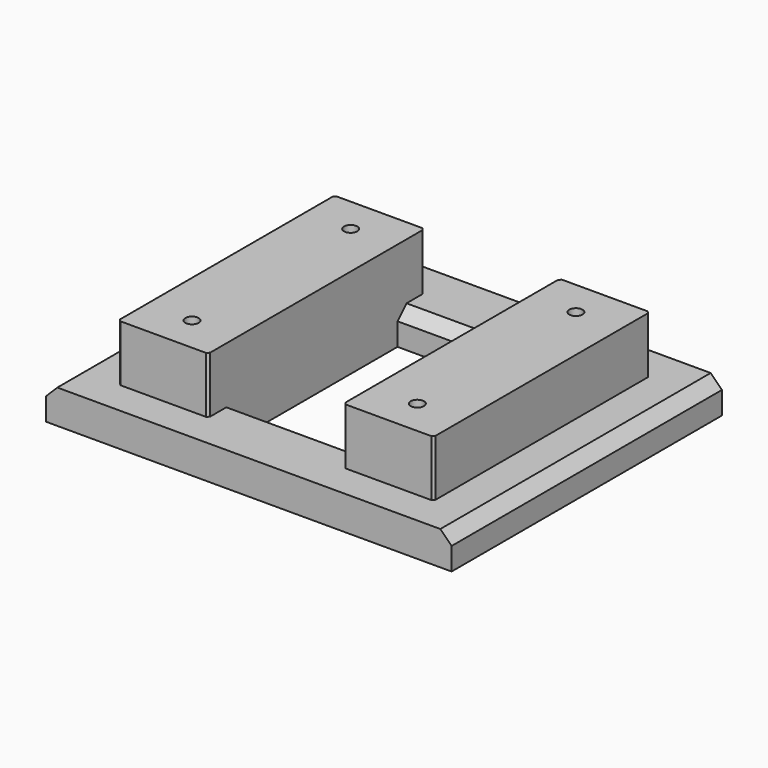
from build123d import *

# Parameters (mm, degrees)
F0_W     = 180
F0_H     = 150
F0_R     = 2.95
F1_DEPTH = 15
F2_DEPTH = 25
F3_SIZE  = 1
F4_SIZE  = 5


with BuildPart() as f1:
    # F0 (on Top) → F1 (new body)
    with BuildSketch(Plane.XY):
        Rectangle(F0_W, F0_H)
        Polygon((-30, 45), (30, 45), (30, 60), (70, 60), (70, -60), (30, -60), (30, -45), (-30, -45), (-30, -60), (-70, -60), (-70, 60), (-30, 60), align=None, mode=Mode.SUBTRACT)
        Polygon((-30, -45), (-30, 45), (-30, 60), (-70, 60), (-70, -60), (-30, -60), align=None)
        with Locations((-50, -44)):
            Circle(F0_R, mode=Mode.SUBTRACT)
        with Locations((-50, 44)):
            Circle(F0_R, mode=Mode.SUBTRACT)
        Polygon((30, 60), (30, 45), (30, -45), (30, -60), (70, -60), (70, 60), align=None)
        with Locations((50, -44)):
            Circle(F0_R, mode=Mode.SUBTRACT)
        with Locations((50, 44)):
            Circle(F0_R, mode=Mode.SUBTRACT)
    extrude(amount=-F1_DEPTH)

    # F0 (on Top) → F2 (join)
    with BuildSketch(Plane.XY):
        Polygon((-30, -45), (-30, 45), (-30, 60), (-70, 60), (-70, -60), (-30, -60), align=None)
        with Locations((-50, -44)):
            Circle(F0_R, mode=Mode.SUBTRACT)
        with Locations((-50, 44)):
            Circle(F0_R, mode=Mode.SUBTRACT)
        Polygon((30, 60), (30, 45), (30, -45), (30, -60), (70, -60), (70, 60), align=None)
        with Locations((50, -44)):
            Circle(F0_R, mode=Mode.SUBTRACT)
        with Locations((50, 44)):
            Circle(F0_R, mode=Mode.SUBTRACT)
    extrude(amount=F2_DEPTH)

    # F3
    f3_edges = [f1.edges().sort_by_distance(p)[0] for p in [
        (-70, -60, 12.5),
        (-30, -60, 12.5),
        (30, -60, 12.5),
        (70, -60, 12.5),
        (70, 60, 12.5),
        (30, 60, 12.5),
        (-30, 60, 12.5),
        (-70, 60, 12.5),
    ]]
    chamfer(f3_edges, length=F3_SIZE)

    # F4
    f4_edges = [f1.edges().sort_by_distance(p)[0] for p in [
        (0, 45, 0),
        (0, -45, 0),
        (-90, 0, 0),
        (90, 0, 0),
    ]]
    chamfer(f4_edges, length=F4_SIZE)


solid = f1.part
